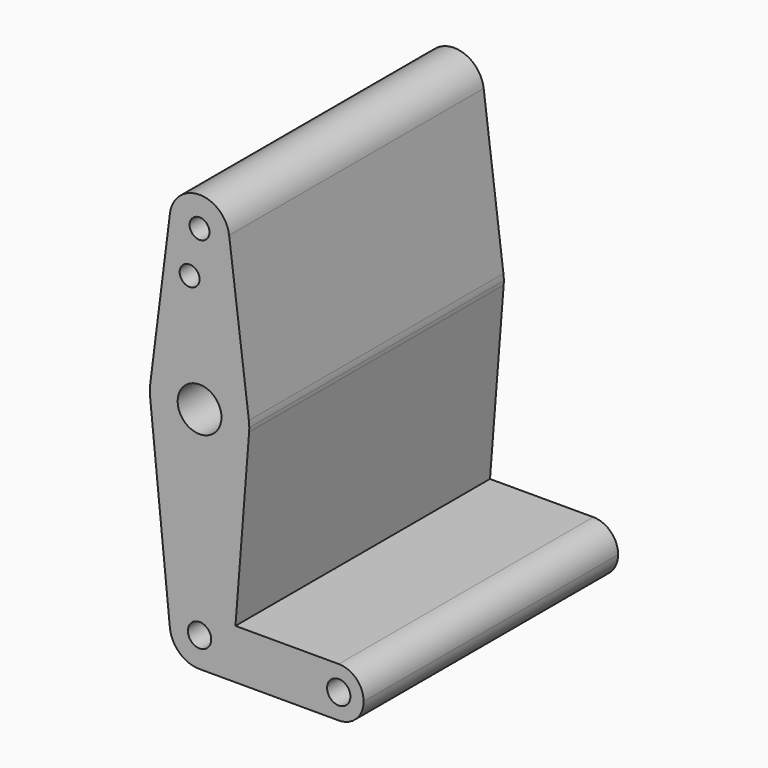
from build123d import *

# Parameters (mm, degrees)
F0_R     = 6.984327
F0_R_2   = 3.175
F0_R_3   = 3.727636
F1_DEPTH = 101.6


with BuildPart() as f1:
    # F0 (on Front) → F1 (new body)
    with BuildSketch(Plane.XZ):
        with BuildLine():
            ThreePointArc((15.826897, -1.234892), (15.86297, -0.617914), (15.875, 0))
            ThreePointArc((15.875, 0), (15.843841, 0.994139), (15.750488, 1.984375))
            ThreePointArc((15.750488, 1.984375), (0, 15.875), (-15.750488, 1.984375))
            ThreePointArc((-15.750488, 1.984375), (-15.873744, 0.199705), (-15.795426, -1.5875))
            ThreePointArc((-15.795426, -1.5875), (0.177005, -15.874013), (15.826897, -1.234892))
        make_face()
        Circle(F0_R, mode=Mode.SUBTRACT)
        with BuildLine():
            ThreePointArc((-15.750488, 1.984375), (0, 15.875), (15.750488, 1.984375))
            Line((15.750488, 1.984375), (9.450293, 51.990625))
            ThreePointArc((9.450293, 51.990625), (9.506305, 51.396483), (9.525, 50.8))
            ThreePointArc((9.525, 50.8), (-0.596483, 41.293695), (-9.450293, 51.990625))
            Line((-9.450293, 51.990625), (-15.750488, 1.984375))
        make_face()
        with Locations((-3.175, 36.5252)):
            Circle(F0_R_2, mode=Mode.SUBTRACT)
        with BuildLine():
            Line((11.464128, -57.15), (15.826897, -1.234892))
            ThreePointArc((15.826897, -1.234892), (0.177005, -15.874013), (-15.795426, -1.5875))
            Line((-15.795426, -1.5875), (-9.477255, -64.4525))
            ThreePointArc((-9.477255, -64.4525), (-0.476848, -53.986944), (9.525, -63.5))
            ThreePointArc((9.525, -63.5), (6.735192, -70.235192), (0, -73.025))
            Line((0, -73.025), (44.45, -73.025))
            ThreePointArc((44.45, -73.025), (36.5125, -65.0875), (44.45, -57.15))
            Line((44.45, -57.15), (11.464128, -57.15))
        make_face()
        with BuildLine():
            ThreePointArc((9.525, 50.8), (9.506305, 51.396483), (9.450293, 51.990625))
            ThreePointArc((9.450293, 51.990625), (0, 60.325), (-9.450293, 51.990625))
            ThreePointArc((-9.450293, 51.990625), (-0.596483, 41.293695), (9.525, 50.8))
        make_face()
        with Locations((0, 50.8)):
            Circle(F0_R_2, mode=Mode.SUBTRACT)
        with BuildLine():
            ThreePointArc((9.525, -63.5), (-0.476848, -53.986944), (-9.477255, -64.4525))
            ThreePointArc((-9.477255, -64.4525), (-6.389564, -70.563929), (0, -73.025))
            ThreePointArc((0, -73.025), (6.735192, -70.235192), (9.525, -63.5))
        make_face()
        with Locations((0, -63.5)):
            Circle(F0_R_3, mode=Mode.SUBTRACT)
        with BuildLine():
            ThreePointArc((52.3875, -65.0875), (50.06266, -59.47484), (44.45, -57.15))
            ThreePointArc((44.45, -57.15), (36.5125, -65.0875), (44.45, -73.025))
            ThreePointArc((44.45, -73.025), (50.06266, -70.70016), (52.3875, -65.0875))
        make_face()
        with Locations((44.45, -65.0875)):
            Circle(F0_R_3, mode=Mode.SUBTRACT)
    extrude(amount=F1_DEPTH)


solid = f1.part
